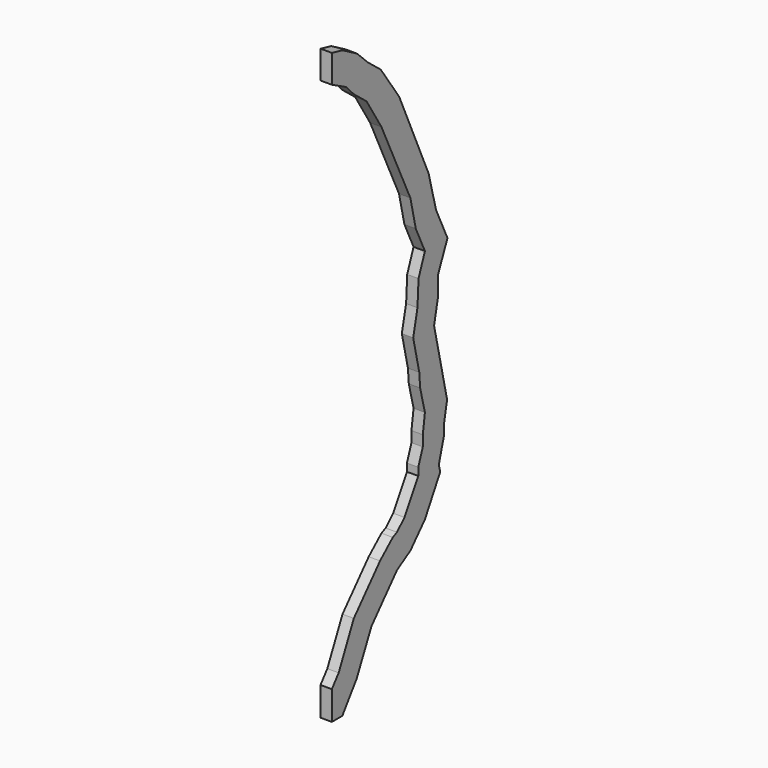
from build123d import *

# Parameters (mm, degrees)
F1_DEPTH = 34.925


with BuildPart() as f1:
    # F0 (on Right) → F1 (new body, symmetric)
    with BuildSketch(Plane.YZ):
        Polygon((0, 177.4987136489), (0, 0), (80.6301941103, 0), (191.1676356724, 157.0948170049), (304.2172897297, 393.2430137401), (390.5227723901, 492.4687444506), (501.0633099215, 618.6311770084), (558.7948598303, 654.2727615103), (604.2697327295, 682.3474715729), (716.0237356889, 805.9208712282), (833.4570987513, 1015.5113461059), (823.3114671834, 1060.1874147418), (864.3083995663, 1205.9371897181), (864.3083995663, 1271.8494015263), (886.7773433951, 1386.2265840571), (853.3309235748, 1533.5071685645), (830.8663102107, 1632.4296064454), (786.6300745783, 1827.2229109414), (816.8383120736, 1970.7500793789), (816.8383120736, 2091.5830293601), (889.7727520262, 2260.522764281), (801.5373263826, 2449.0352850475), (744.5941329498, 2669.3751048716), (518.1075050627, 3177.7840826502), (376.0915174209, 3382.5513601832), (278.1115545457, 3460.7151486208), (193.3423488693, 3543.2825743104), (83.2524511698, 3606.0336323661), (0, 3625.85), (0, 3453.0089379868), (108.5731335332, 3396.8630266951), (169.0060591815, 3333.0109047694), (266.8950652787, 3255.1262462236), (381.6159083639, 3069.3036412327), (604.0412207552, 2594.0981779468), (645.6502368782, 2410.8737775981), (716.0237356889, 2260.522764281), (667.0690511998, 2131.5069499635), (658.7513359053, 1976.8604892749), (625.8193408889, 1827.2229109414), (672.5198892169, 1621.5780589203), (679.2911847261, 1533.5071685645), (716.0237356889, 1386.2265840571), (699.8821919046, 1271.8494015263), (699.8821919046, 1205.9371897181), (665.0457458767, 1110.0532898606), (665.0457458767, 1062.5407764791), (558.7948598303, 881.1061922545), (501.0633099215, 824.5292988458), (468.7769380172, 809.5341041243), (370.7749121342, 721.908724241), (169.0060591815, 492.4687444506), (52.50437515, 244.7721280309), align=None)
    extrude(amount=F1_DEPTH, both=True)


solid = f1.part
